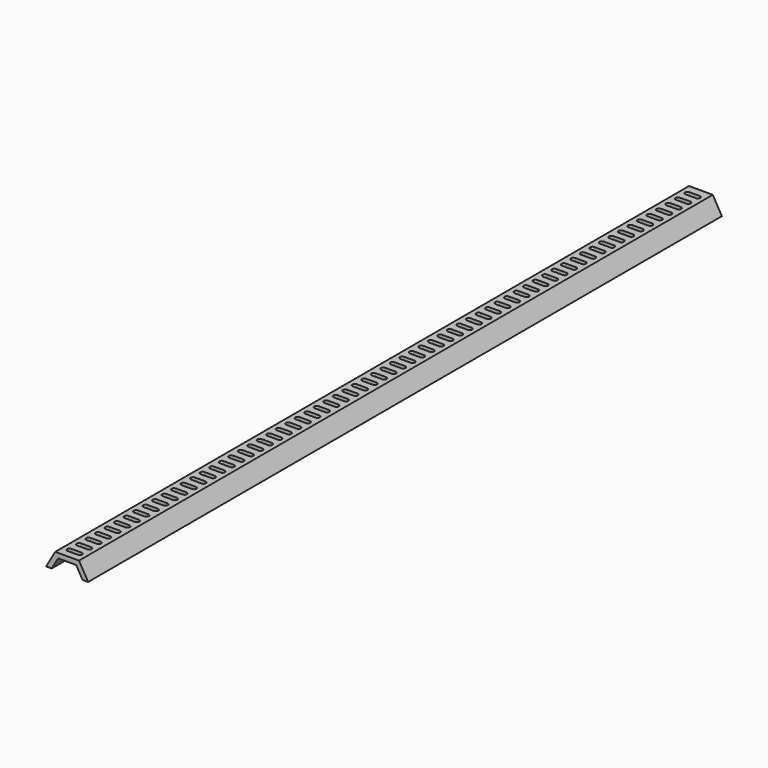
from build123d import *

# Parameters (mm, degrees)
F1_DEPTH = 1000
F3_DEPTH = 20.001


with BuildPart() as f1:
    # F0 (on Front) → F1 (new body)
    with BuildSketch(Plane.XZ):
        Polygon((15, 20), (0, 20), (-15, 20), (-26.547005, 0), (-19.497005, 0), (-11.414102, 14), (0, 14), (11.414102, 14), (19.497005, 0), (26.547005, 0), align=None)
    extrude(amount=F1_DEPTH)

    # F2 (on face) → F3 (cut, through all)
    with BuildSketch(Plane.XY.offset(20)):
        with BuildLine():
            Line((6.481084, -985), (-6.481084, -985))
            ThreePointArc((-6.481084, -985), (-8.602404, -985.87868), (-9.481084, -988))
            ThreePointArc((-9.481084, -988), (-8.602404, -990.12132), (-6.481084, -991))
            Line((-6.481084, -991), (6.481084, -991))
            ThreePointArc((6.481084, -991), (8.602404, -990.12132), (9.481084, -988))
            ThreePointArc((9.481084, -988), (8.602404, -985.87868), (6.481084, -985))
        make_face()
        with BuildLine():
            ThreePointArc((-9.481084, -973), (-8.602404, -975.12132), (-6.481084, -976))
            Line((-6.481084, -976), (6.481084, -976))
            ThreePointArc((6.481084, -976), (8.602404, -975.12132), (9.481084, -973))
            ThreePointArc((9.481084, -973), (8.602404, -970.87868), (6.481084, -970))
            Line((6.481084, -970), (-6.481084, -970))
            ThreePointArc((-6.481084, -970), (-8.602404, -970.87868), (-9.481084, -973))
        make_face()
        with BuildLine():
            ThreePointArc((-9.481084, -958), (-8.602404, -960.12132), (-6.481084, -961))
            Line((-6.481084, -961), (6.481084, -961))
            ThreePointArc((6.481084, -961), (8.602404, -960.12132), (9.481084, -958))
            ThreePointArc((9.481084, -958), (8.602404, -955.87868), (6.481084, -955))
            Line((6.481084, -955), (-6.481084, -955))
            ThreePointArc((-6.481084, -955), (-8.602404, -955.87868), (-9.481084, -958))
        make_face()
        with BuildLine():
            ThreePointArc((-9.481084, -943), (-8.602404, -945.12132), (-6.481084, -946))
            Line((-6.481084, -946), (6.481084, -946))
            ThreePointArc((6.481084, -946), (8.602404, -945.12132), (9.481084, -943))
            ThreePointArc((9.481084, -943), (8.602404, -940.87868), (6.481084, -940))
            Line((6.481084, -940), (-6.481084, -940))
            ThreePointArc((-6.481084, -940), (-8.602404, -940.87868), (-9.481084, -943))
        make_face()
        with BuildLine():
            ThreePointArc((-9.481084, -928), (-8.602404, -930.12132), (-6.481084, -931))
            Line((-6.481084, -931), (6.481084, -931))
            ThreePointArc((6.481084, -931), (8.602404, -930.12132), (9.481084, -928))
            ThreePointArc((9.481084, -928), (8.602404, -925.87868), (6.481084, -925))
            Line((6.481084, -925), (-6.481084, -925))
            ThreePointArc((-6.481084, -925), (-8.602404, -925.87868), (-9.481084, -928))
        make_face()
        with BuildLine():
            ThreePointArc((-9.481084, -913), (-8.602404, -915.12132), (-6.481084, -916))
            Line((-6.481084, -916), (6.481084, -916))
            ThreePointArc((6.481084, -916), (8.602404, -915.12132), (9.481084, -913))
            ThreePointArc((9.481084, -913), (8.602404, -910.87868), (6.481084, -910))
            Line((6.481084, -910), (-6.481084, -910))
            ThreePointArc((-6.481084, -910), (-8.602404, -910.87868), (-9.481084, -913))
        make_face()
        with BuildLine():
            ThreePointArc((-9.481084, -898), (-8.602404, -900.12132), (-6.481084, -901))
            Line((-6.481084, -901), (6.481084, -901))
            ThreePointArc((6.481084, -901), (8.602404, -900.12132), (9.481084, -898))
            ThreePointArc((9.481084, -898), (8.602404, -895.87868), (6.481084, -895))
            Line((6.481084, -895), (-6.481084, -895))
            ThreePointArc((-6.481084, -895), (-8.602404, -895.87868), (-9.481084, -898))
        make_face()
        with BuildLine():
            ThreePointArc((-9.481084, -883), (-8.602404, -885.12132), (-6.481084, -886))
            Line((-6.481084, -886), (6.481084, -886))
            ThreePointArc((6.481084, -886), (8.602404, -885.12132), (9.481084, -883))
            ThreePointArc((9.481084, -883), (8.602404, -880.87868), (6.481084, -880))
            Line((6.481084, -880), (-6.481084, -880))
            ThreePointArc((-6.481084, -880), (-8.602404, -880.87868), (-9.481084, -883))
        make_face()
        with BuildLine():
            ThreePointArc((-9.481084, -868), (-8.602404, -870.12132), (-6.481084, -871))
            Line((-6.481084, -871), (6.481084, -871))
            ThreePointArc((6.481084, -871), (8.602404, -870.12132), (9.481084, -868))
            ThreePointArc((9.481084, -868), (8.602404, -865.87868), (6.481084, -865))
            Line((6.481084, -865), (-6.481084, -865))
            ThreePointArc((-6.481084, -865), (-8.602404, -865.87868), (-9.481084, -868))
        make_face()
        with BuildLine():
            ThreePointArc((-9.481084, -853), (-8.602404, -855.12132), (-6.481084, -856))
            Line((-6.481084, -856), (6.481084, -856))
            ThreePointArc((6.481084, -856), (8.602404, -855.12132), (9.481084, -853))
            ThreePointArc((9.481084, -853), (8.602404, -850.87868), (6.481084, -850))
            Line((6.481084, -850), (-6.481084, -850))
            ThreePointArc((-6.481084, -850), (-8.602404, -850.87868), (-9.481084, -853))
        make_face()
        with BuildLine():
            ThreePointArc((-9.481084, -838), (-8.602404, -840.12132), (-6.481084, -841))
            Line((-6.481084, -841), (6.481084, -841))
            ThreePointArc((6.481084, -841), (8.602404, -840.12132), (9.481084, -838))
            ThreePointArc((9.481084, -838), (8.602404, -835.87868), (6.481084, -835))
            Line((6.481084, -835), (-6.481084, -835))
            ThreePointArc((-6.481084, -835), (-8.602404, -835.87868), (-9.481084, -838))
        make_face()
        with BuildLine():
            ThreePointArc((-9.481084, -823), (-8.602404, -825.12132), (-6.481084, -826))
            Line((-6.481084, -826), (6.481084, -826))
            ThreePointArc((6.481084, -826), (8.602404, -825.12132), (9.481084, -823))
            ThreePointArc((9.481084, -823), (8.602404, -820.87868), (6.481084, -820))
            Line((6.481084, -820), (-6.481084, -820))
            ThreePointArc((-6.481084, -820), (-8.602404, -820.87868), (-9.481084, -823))
        make_face()
        with BuildLine():
            ThreePointArc((-9.481084, -808), (-8.602404, -810.12132), (-6.481084, -811))
            Line((-6.481084, -811), (6.481084, -811))
            ThreePointArc((6.481084, -811), (8.602404, -810.12132), (9.481084, -808))
            ThreePointArc((9.481084, -808), (8.602404, -805.87868), (6.481084, -805))
            Line((6.481084, -805), (-6.481084, -805))
            ThreePointArc((-6.481084, -805), (-8.602404, -805.87868), (-9.481084, -808))
        make_face()
        with BuildLine():
            ThreePointArc((-9.481084, -793), (-8.602404, -795.12132), (-6.481084, -796))
            Line((-6.481084, -796), (6.481084, -796))
            ThreePointArc((6.481084, -796), (8.602404, -795.12132), (9.481084, -793))
            ThreePointArc((9.481084, -793), (8.602404, -790.87868), (6.481084, -790))
            Line((6.481084, -790), (-6.481084, -790))
            ThreePointArc((-6.481084, -790), (-8.602404, -790.87868), (-9.481084, -793))
        make_face()
        with BuildLine():
            ThreePointArc((-9.481084, -778), (-8.602404, -780.12132), (-6.481084, -781))
            Line((-6.481084, -781), (6.481084, -781))
            ThreePointArc((6.481084, -781), (8.602404, -780.12132), (9.481084, -778))
            ThreePointArc((9.481084, -778), (8.602404, -775.87868), (6.481084, -775))
            Line((6.481084, -775), (-6.481084, -775))
            ThreePointArc((-6.481084, -775), (-8.602404, -775.87868), (-9.481084, -778))
        make_face()
        with BuildLine():
            ThreePointArc((-9.481084, -763), (-8.602404, -765.12132), (-6.481084, -766))
            Line((-6.481084, -766), (6.481084, -766))
            ThreePointArc((6.481084, -766), (8.602404, -765.12132), (9.481084, -763))
            ThreePointArc((9.481084, -763), (8.602404, -760.87868), (6.481084, -760))
            Line((6.481084, -760), (-6.481084, -760))
            ThreePointArc((-6.481084, -760), (-8.602404, -760.87868), (-9.481084, -763))
        make_face()
        with BuildLine():
            ThreePointArc((-9.481084, -748), (-8.602404, -750.12132), (-6.481084, -751))
            Line((-6.481084, -751), (6.481084, -751))
            ThreePointArc((6.481084, -751), (8.602404, -750.12132), (9.481084, -748))
            ThreePointArc((9.481084, -748), (8.602404, -745.87868), (6.481084, -745))
            Line((6.481084, -745), (-6.481084, -745))
            ThreePointArc((-6.481084, -745), (-8.602404, -745.87868), (-9.481084, -748))
        make_face()
        with BuildLine():
            ThreePointArc((-9.481084, -733), (-8.602404, -735.12132), (-6.481084, -736))
            Line((-6.481084, -736), (6.481084, -736))
            ThreePointArc((6.481084, -736), (8.602404, -735.12132), (9.481084, -733))
            ThreePointArc((9.481084, -733), (8.602404, -730.87868), (6.481084, -730))
            Line((6.481084, -730), (-6.481084, -730))
            ThreePointArc((-6.481084, -730), (-8.602404, -730.87868), (-9.481084, -733))
        make_face()
        with BuildLine():
            ThreePointArc((-9.481084, -718), (-8.602404, -720.12132), (-6.481084, -721))
            Line((-6.481084, -721), (6.481084, -721))
            ThreePointArc((6.481084, -721), (8.602404, -720.12132), (9.481084, -718))
            ThreePointArc((9.481084, -718), (8.602404, -715.87868), (6.481084, -715))
            Line((6.481084, -715), (-6.481084, -715))
            ThreePointArc((-6.481084, -715), (-8.602404, -715.87868), (-9.481084, -718))
        make_face()
        with BuildLine():
            ThreePointArc((-9.481084, -703), (-8.602404, -705.12132), (-6.481084, -706))
            Line((-6.481084, -706), (6.481084, -706))
            ThreePointArc((6.481084, -706), (8.602404, -705.12132), (9.481084, -703))
            ThreePointArc((9.481084, -703), (8.602404, -700.87868), (6.481084, -700))
            Line((6.481084, -700), (-6.481084, -700))
            ThreePointArc((-6.481084, -700), (-8.602404, -700.87868), (-9.481084, -703))
        make_face()
        with BuildLine():
            ThreePointArc((-9.481084, -688), (-8.602404, -690.12132), (-6.481084, -691))
            Line((-6.481084, -691), (6.481084, -691))
            ThreePointArc((6.481084, -691), (8.602404, -690.12132), (9.481084, -688))
            ThreePointArc((9.481084, -688), (8.602404, -685.87868), (6.481084, -685))
            Line((6.481084, -685), (-6.481084, -685))
            ThreePointArc((-6.481084, -685), (-8.602404, -685.87868), (-9.481084, -688))
        make_face()
        with BuildLine():
            ThreePointArc((-9.481084, -673), (-8.602404, -675.12132), (-6.481084, -676))
            Line((-6.481084, -676), (6.481084, -676))
            ThreePointArc((6.481084, -676), (8.602404, -675.12132), (9.481084, -673))
            ThreePointArc((9.481084, -673), (8.602404, -670.87868), (6.481084, -670))
            Line((6.481084, -670), (-6.481084, -670))
            ThreePointArc((-6.481084, -670), (-8.602404, -670.87868), (-9.481084, -673))
        make_face()
        with BuildLine():
            ThreePointArc((-9.481084, -658), (-8.602404, -660.12132), (-6.481084, -661))
            Line((-6.481084, -661), (6.481084, -661))
            ThreePointArc((6.481084, -661), (8.602404, -660.12132), (9.481084, -658))
            ThreePointArc((9.481084, -658), (8.602404, -655.87868), (6.481084, -655))
            Line((6.481084, -655), (-6.481084, -655))
            ThreePointArc((-6.481084, -655), (-8.602404, -655.87868), (-9.481084, -658))
        make_face()
        with BuildLine():
            ThreePointArc((-9.481084, -643), (-8.602404, -645.12132), (-6.481084, -646))
            Line((-6.481084, -646), (6.481084, -646))
            ThreePointArc((6.481084, -646), (8.602404, -645.12132), (9.481084, -643))
            ThreePointArc((9.481084, -643), (8.602404, -640.87868), (6.481084, -640))
            Line((6.481084, -640), (-6.481084, -640))
            ThreePointArc((-6.481084, -640), (-8.602404, -640.87868), (-9.481084, -643))
        make_face()
        with BuildLine():
            ThreePointArc((-9.481084, -628), (-8.602404, -630.12132), (-6.481084, -631))
            Line((-6.481084, -631), (6.481084, -631))
            ThreePointArc((6.481084, -631), (8.602404, -630.12132), (9.481084, -628))
            ThreePointArc((9.481084, -628), (8.602404, -625.87868), (6.481084, -625))
            Line((6.481084, -625), (-6.481084, -625))
            ThreePointArc((-6.481084, -625), (-8.602404, -625.87868), (-9.481084, -628))
        make_face()
        with BuildLine():
            ThreePointArc((-9.481084, -613), (-8.602404, -615.12132), (-6.481084, -616))
            Line((-6.481084, -616), (6.481084, -616))
            ThreePointArc((6.481084, -616), (8.602404, -615.12132), (9.481084, -613))
            ThreePointArc((9.481084, -613), (8.602404, -610.87868), (6.481084, -610))
            Line((6.481084, -610), (-6.481084, -610))
            ThreePointArc((-6.481084, -610), (-8.602404, -610.87868), (-9.481084, -613))
        make_face()
        with BuildLine():
            ThreePointArc((-9.481084, -598), (-8.602404, -600.12132), (-6.481084, -601))
            Line((-6.481084, -601), (6.481084, -601))
            ThreePointArc((6.481084, -601), (8.602404, -600.12132), (9.481084, -598))
            ThreePointArc((9.481084, -598), (8.602404, -595.87868), (6.481084, -595))
            Line((6.481084, -595), (-6.481084, -595))
            ThreePointArc((-6.481084, -595), (-8.602404, -595.87868), (-9.481084, -598))
        make_face()
        with BuildLine():
            ThreePointArc((-9.481084, -583), (-8.602404, -585.12132), (-6.481084, -586))
            Line((-6.481084, -586), (6.481084, -586))
            ThreePointArc((6.481084, -586), (8.602404, -585.12132), (9.481084, -583))
            ThreePointArc((9.481084, -583), (8.602404, -580.87868), (6.481084, -580))
            Line((6.481084, -580), (-6.481084, -580))
            ThreePointArc((-6.481084, -580), (-8.602404, -580.87868), (-9.481084, -583))
        make_face()
        with BuildLine():
            ThreePointArc((-9.481084, -568), (-8.602404, -570.12132), (-6.481084, -571))
            Line((-6.481084, -571), (6.481084, -571))
            ThreePointArc((6.481084, -571), (8.602404, -570.12132), (9.481084, -568))
            ThreePointArc((9.481084, -568), (8.602404, -565.87868), (6.481084, -565))
            Line((6.481084, -565), (-6.481084, -565))
            ThreePointArc((-6.481084, -565), (-8.602404, -565.87868), (-9.481084, -568))
        make_face()
        with BuildLine():
            ThreePointArc((-9.481084, -553), (-8.602404, -555.12132), (-6.481084, -556))
            Line((-6.481084, -556), (6.481084, -556))
            ThreePointArc((6.481084, -556), (8.602404, -555.12132), (9.481084, -553))
            ThreePointArc((9.481084, -553), (8.602404, -550.87868), (6.481084, -550))
            Line((6.481084, -550), (-6.481084, -550))
            ThreePointArc((-6.481084, -550), (-8.602404, -550.87868), (-9.481084, -553))
        make_face()
        with BuildLine():
            ThreePointArc((-9.481084, -538), (-8.602404, -540.12132), (-6.481084, -541))
            Line((-6.481084, -541), (6.481084, -541))
            ThreePointArc((6.481084, -541), (8.602404, -540.12132), (9.481084, -538))
            ThreePointArc((9.481084, -538), (8.602404, -535.87868), (6.481084, -535))
            Line((6.481084, -535), (-6.481084, -535))
            ThreePointArc((-6.481084, -535), (-8.602404, -535.87868), (-9.481084, -538))
        make_face()
        with BuildLine():
            ThreePointArc((-9.481084, -523), (-8.602404, -525.12132), (-6.481084, -526))
            Line((-6.481084, -526), (6.481084, -526))
            ThreePointArc((6.481084, -526), (8.602404, -525.12132), (9.481084, -523))
            ThreePointArc((9.481084, -523), (8.602404, -520.87868), (6.481084, -520))
            Line((6.481084, -520), (-6.481084, -520))
            ThreePointArc((-6.481084, -520), (-8.602404, -520.87868), (-9.481084, -523))
        make_face()
        with BuildLine():
            ThreePointArc((-9.481084, -508), (-8.602404, -510.12132), (-6.481084, -511))
            Line((-6.481084, -511), (6.481084, -511))
            ThreePointArc((6.481084, -511), (8.602404, -510.12132), (9.481084, -508))
            ThreePointArc((9.481084, -508), (8.602404, -505.87868), (6.481084, -505))
            Line((6.481084, -505), (-6.481084, -505))
            ThreePointArc((-6.481084, -505), (-8.602404, -505.87868), (-9.481084, -508))
        make_face()
        with BuildLine():
            ThreePointArc((-9.481084, -493), (-8.602404, -495.12132), (-6.481084, -496))
            Line((-6.481084, -496), (6.481084, -496))
            ThreePointArc((6.481084, -496), (8.602404, -495.12132), (9.481084, -493))
            ThreePointArc((9.481084, -493), (8.602404, -490.87868), (6.481084, -490))
            Line((6.481084, -490), (-6.481084, -490))
            ThreePointArc((-6.481084, -490), (-8.602404, -490.87868), (-9.481084, -493))
        make_face()
        with BuildLine():
            ThreePointArc((-9.481084, -478), (-8.602404, -480.12132), (-6.481084, -481))
            Line((-6.481084, -481), (6.481084, -481))
            ThreePointArc((6.481084, -481), (8.602404, -480.12132), (9.481084, -478))
            ThreePointArc((9.481084, -478), (8.602404, -475.87868), (6.481084, -475))
            Line((6.481084, -475), (-6.481084, -475))
            ThreePointArc((-6.481084, -475), (-8.602404, -475.87868), (-9.481084, -478))
        make_face()
        with BuildLine():
            ThreePointArc((-9.481084, -463), (-8.602404, -465.12132), (-6.481084, -466))
            Line((-6.481084, -466), (6.481084, -466))
            ThreePointArc((6.481084, -466), (8.602404, -465.12132), (9.481084, -463))
            ThreePointArc((9.481084, -463), (8.602404, -460.87868), (6.481084, -460))
            Line((6.481084, -460), (-6.481084, -460))
            ThreePointArc((-6.481084, -460), (-8.602404, -460.87868), (-9.481084, -463))
        make_face()
        with BuildLine():
            ThreePointArc((-9.481084, -448), (-8.602404, -450.12132), (-6.481084, -451))
            Line((-6.481084, -451), (6.481084, -451))
            ThreePointArc((6.481084, -451), (8.602404, -450.12132), (9.481084, -448))
            ThreePointArc((9.481084, -448), (8.602404, -445.87868), (6.481084, -445))
            Line((6.481084, -445), (-6.481084, -445))
            ThreePointArc((-6.481084, -445), (-8.602404, -445.87868), (-9.481084, -448))
        make_face()
        with BuildLine():
            ThreePointArc((-9.481084, -433), (-8.602404, -435.12132), (-6.481084, -436))
            Line((-6.481084, -436), (6.481084, -436))
            ThreePointArc((6.481084, -436), (8.602404, -435.12132), (9.481084, -433))
            ThreePointArc((9.481084, -433), (8.602404, -430.87868), (6.481084, -430))
            Line((6.481084, -430), (-6.481084, -430))
            ThreePointArc((-6.481084, -430), (-8.602404, -430.87868), (-9.481084, -433))
        make_face()
        with BuildLine():
            ThreePointArc((-9.481084, -418), (-8.602404, -420.12132), (-6.481084, -421))
            Line((-6.481084, -421), (6.481084, -421))
            ThreePointArc((6.481084, -421), (8.602404, -420.12132), (9.481084, -418))
            ThreePointArc((9.481084, -418), (8.602404, -415.87868), (6.481084, -415))
            Line((6.481084, -415), (-6.481084, -415))
            ThreePointArc((-6.481084, -415), (-8.602404, -415.87868), (-9.481084, -418))
        make_face()
        with BuildLine():
            ThreePointArc((-9.481084, -403), (-8.602404, -405.12132), (-6.481084, -406))
            Line((-6.481084, -406), (6.481084, -406))
            ThreePointArc((6.481084, -406), (8.602404, -405.12132), (9.481084, -403))
            ThreePointArc((9.481084, -403), (8.602404, -400.87868), (6.481084, -400))
            Line((6.481084, -400), (-6.481084, -400))
            ThreePointArc((-6.481084, -400), (-8.602404, -400.87868), (-9.481084, -403))
        make_face()
        with BuildLine():
            ThreePointArc((-9.481084, -388), (-8.602404, -390.12132), (-6.481084, -391))
            Line((-6.481084, -391), (6.481084, -391))
            ThreePointArc((6.481084, -391), (8.602404, -390.12132), (9.481084, -388))
            ThreePointArc((9.481084, -388), (8.602404, -385.87868), (6.481084, -385))
            Line((6.481084, -385), (-6.481084, -385))
            ThreePointArc((-6.481084, -385), (-8.602404, -385.87868), (-9.481084, -388))
        make_face()
        with BuildLine():
            ThreePointArc((-9.481084, -373), (-8.602404, -375.12132), (-6.481084, -376))
            Line((-6.481084, -376), (6.481084, -376))
            ThreePointArc((6.481084, -376), (8.602404, -375.12132), (9.481084, -373))
            ThreePointArc((9.481084, -373), (8.602404, -370.87868), (6.481084, -370))
            Line((6.481084, -370), (-6.481084, -370))
            ThreePointArc((-6.481084, -370), (-8.602404, -370.87868), (-9.481084, -373))
        make_face()
        with BuildLine():
            ThreePointArc((-9.481084, -358), (-8.602404, -360.12132), (-6.481084, -361))
            Line((-6.481084, -361), (6.481084, -361))
            ThreePointArc((6.481084, -361), (8.602404, -360.12132), (9.481084, -358))
            ThreePointArc((9.481084, -358), (8.602404, -355.87868), (6.481084, -355))
            Line((6.481084, -355), (-6.481084, -355))
            ThreePointArc((-6.481084, -355), (-8.602404, -355.87868), (-9.481084, -358))
        make_face()
        with BuildLine():
            ThreePointArc((-9.481084, -343), (-8.602404, -345.12132), (-6.481084, -346))
            Line((-6.481084, -346), (6.481084, -346))
            ThreePointArc((6.481084, -346), (8.602404, -345.12132), (9.481084, -343))
            ThreePointArc((9.481084, -343), (8.602404, -340.87868), (6.481084, -340))
            Line((6.481084, -340), (-6.481084, -340))
            ThreePointArc((-6.481084, -340), (-8.602404, -340.87868), (-9.481084, -343))
        make_face()
        with BuildLine():
            ThreePointArc((-9.481084, -328), (-8.602404, -330.12132), (-6.481084, -331))
            Line((-6.481084, -331), (6.481084, -331))
            ThreePointArc((6.481084, -331), (8.602404, -330.12132), (9.481084, -328))
            ThreePointArc((9.481084, -328), (8.602404, -325.87868), (6.481084, -325))
            Line((6.481084, -325), (-6.481084, -325))
            ThreePointArc((-6.481084, -325), (-8.602404, -325.87868), (-9.481084, -328))
        make_face()
        with BuildLine():
            ThreePointArc((-9.481084, -313), (-8.602404, -315.12132), (-6.481084, -316))
            Line((-6.481084, -316), (6.481084, -316))
            ThreePointArc((6.481084, -316), (8.602404, -315.12132), (9.481084, -313))
            ThreePointArc((9.481084, -313), (8.602404, -310.87868), (6.481084, -310))
            Line((6.481084, -310), (-6.481084, -310))
            ThreePointArc((-6.481084, -310), (-8.602404, -310.87868), (-9.481084, -313))
        make_face()
        with BuildLine():
            ThreePointArc((-9.481084, -298), (-8.602404, -300.12132), (-6.481084, -301))
            Line((-6.481084, -301), (6.481084, -301))
            ThreePointArc((6.481084, -301), (8.602404, -300.12132), (9.481084, -298))
            ThreePointArc((9.481084, -298), (8.602404, -295.87868), (6.481084, -295))
            Line((6.481084, -295), (-6.481084, -295))
            ThreePointArc((-6.481084, -295), (-8.602404, -295.87868), (-9.481084, -298))
        make_face()
        with BuildLine():
            ThreePointArc((-9.481084, -283), (-8.602404, -285.12132), (-6.481084, -286))
            Line((-6.481084, -286), (6.481084, -286))
            ThreePointArc((6.481084, -286), (8.602404, -285.12132), (9.481084, -283))
            ThreePointArc((9.481084, -283), (8.602404, -280.87868), (6.481084, -280))
            Line((6.481084, -280), (-6.481084, -280))
            ThreePointArc((-6.481084, -280), (-8.602404, -280.87868), (-9.481084, -283))
        make_face()
        with BuildLine():
            ThreePointArc((-9.481084, -268), (-8.602404, -270.12132), (-6.481084, -271))
            Line((-6.481084, -271), (6.481084, -271))
            ThreePointArc((6.481084, -271), (8.602404, -270.12132), (9.481084, -268))
            ThreePointArc((9.481084, -268), (8.602404, -265.87868), (6.481084, -265))
            Line((6.481084, -265), (-6.481084, -265))
            ThreePointArc((-6.481084, -265), (-8.602404, -265.87868), (-9.481084, -268))
        make_face()
        with BuildLine():
            ThreePointArc((-9.481084, -253), (-8.602404, -255.12132), (-6.481084, -256))
            Line((-6.481084, -256), (6.481084, -256))
            ThreePointArc((6.481084, -256), (8.602404, -255.12132), (9.481084, -253))
            ThreePointArc((9.481084, -253), (8.602404, -250.87868), (6.481084, -250))
            Line((6.481084, -250), (-6.481084, -250))
            ThreePointArc((-6.481084, -250), (-8.602404, -250.87868), (-9.481084, -253))
        make_face()
        with BuildLine():
            ThreePointArc((-9.481084, -238), (-8.602404, -240.12132), (-6.481084, -241))
            Line((-6.481084, -241), (6.481084, -241))
            ThreePointArc((6.481084, -241), (8.602404, -240.12132), (9.481084, -238))
            ThreePointArc((9.481084, -238), (8.602404, -235.87868), (6.481084, -235))
            Line((6.481084, -235), (-6.481084, -235))
            ThreePointArc((-6.481084, -235), (-8.602404, -235.87868), (-9.481084, -238))
        make_face()
        with BuildLine():
            ThreePointArc((-9.481084, -223), (-8.602404, -225.12132), (-6.481084, -226))
            Line((-6.481084, -226), (6.481084, -226))
            ThreePointArc((6.481084, -226), (8.602404, -225.12132), (9.481084, -223))
            ThreePointArc((9.481084, -223), (8.602404, -220.87868), (6.481084, -220))
            Line((6.481084, -220), (-6.481084, -220))
            ThreePointArc((-6.481084, -220), (-8.602404, -220.87868), (-9.481084, -223))
        make_face()
        with BuildLine():
            ThreePointArc((-9.481084, -208), (-8.602404, -210.12132), (-6.481084, -211))
            Line((-6.481084, -211), (6.481084, -211))
            ThreePointArc((6.481084, -211), (8.602404, -210.12132), (9.481084, -208))
            ThreePointArc((9.481084, -208), (8.602404, -205.87868), (6.481084, -205))
            Line((6.481084, -205), (-6.481084, -205))
            ThreePointArc((-6.481084, -205), (-8.602404, -205.87868), (-9.481084, -208))
        make_face()
        with BuildLine():
            ThreePointArc((-9.481084, -193), (-8.602404, -195.12132), (-6.481084, -196))
            Line((-6.481084, -196), (6.481084, -196))
            ThreePointArc((6.481084, -196), (8.602404, -195.12132), (9.481084, -193))
            ThreePointArc((9.481084, -193), (8.602404, -190.87868), (6.481084, -190))
            Line((6.481084, -190), (-6.481084, -190))
            ThreePointArc((-6.481084, -190), (-8.602404, -190.87868), (-9.481084, -193))
        make_face()
        with BuildLine():
            ThreePointArc((-9.481084, -178), (-8.602404, -180.12132), (-6.481084, -181))
            Line((-6.481084, -181), (6.481084, -181))
            ThreePointArc((6.481084, -181), (8.602404, -180.12132), (9.481084, -178))
            ThreePointArc((9.481084, -178), (8.602404, -175.87868), (6.481084, -175))
            Line((6.481084, -175), (-6.481084, -175))
            ThreePointArc((-6.481084, -175), (-8.602404, -175.87868), (-9.481084, -178))
        make_face()
        with BuildLine():
            ThreePointArc((-9.481084, -163), (-8.602404, -165.12132), (-6.481084, -166))
            Line((-6.481084, -166), (6.481084, -166))
            ThreePointArc((6.481084, -166), (8.602404, -165.12132), (9.481084, -163))
            ThreePointArc((9.481084, -163), (8.602404, -160.87868), (6.481084, -160))
            Line((6.481084, -160), (-6.481084, -160))
            ThreePointArc((-6.481084, -160), (-8.602404, -160.87868), (-9.481084, -163))
        make_face()
        with BuildLine():
            ThreePointArc((-9.481084, -148), (-8.602404, -150.12132), (-6.481084, -151))
            Line((-6.481084, -151), (6.481084, -151))
            ThreePointArc((6.481084, -151), (8.602404, -150.12132), (9.481084, -148))
            ThreePointArc((9.481084, -148), (8.602404, -145.87868), (6.481084, -145))
            Line((6.481084, -145), (-6.481084, -145))
            ThreePointArc((-6.481084, -145), (-8.602404, -145.87868), (-9.481084, -148))
        make_face()
        with BuildLine():
            ThreePointArc((-9.481084, -133), (-8.602404, -135.12132), (-6.481084, -136))
            Line((-6.481084, -136), (6.481084, -136))
            ThreePointArc((6.481084, -136), (8.602404, -135.12132), (9.481084, -133))
            ThreePointArc((9.481084, -133), (8.602404, -130.87868), (6.481084, -130))
            Line((6.481084, -130), (-6.481084, -130))
            ThreePointArc((-6.481084, -130), (-8.602404, -130.87868), (-9.481084, -133))
        make_face()
        with BuildLine():
            ThreePointArc((-9.481084, -118), (-8.602404, -120.12132), (-6.481084, -121))
            Line((-6.481084, -121), (6.481084, -121))
            ThreePointArc((6.481084, -121), (8.602404, -120.12132), (9.481084, -118))
            ThreePointArc((9.481084, -118), (8.602404, -115.87868), (6.481084, -115))
            Line((6.481084, -115), (-6.481084, -115))
            ThreePointArc((-6.481084, -115), (-8.602404, -115.87868), (-9.481084, -118))
        make_face()
        with BuildLine():
            ThreePointArc((-9.481084, -103), (-8.602404, -105.12132), (-6.481084, -106))
            Line((-6.481084, -106), (6.481084, -106))
            ThreePointArc((6.481084, -106), (8.602404, -105.12132), (9.481084, -103))
            ThreePointArc((9.481084, -103), (8.602404, -100.87868), (6.481084, -100))
            Line((6.481084, -100), (-6.481084, -100))
            ThreePointArc((-6.481084, -100), (-8.602404, -100.87868), (-9.481084, -103))
        make_face()
        with BuildLine():
            ThreePointArc((-9.481084, -88), (-8.602404, -90.12132), (-6.481084, -91))
            Line((-6.481084, -91), (6.481084, -91))
            ThreePointArc((6.481084, -91), (8.602404, -90.12132), (9.481084, -88))
            ThreePointArc((9.481084, -88), (8.602404, -85.87868), (6.481084, -85))
            Line((6.481084, -85), (-6.481084, -85))
            ThreePointArc((-6.481084, -85), (-8.602404, -85.87868), (-9.481084, -88))
        make_face()
        with BuildLine():
            ThreePointArc((-9.481084, -73), (-8.602404, -75.12132), (-6.481084, -76))
            Line((-6.481084, -76), (6.481084, -76))
            ThreePointArc((6.481084, -76), (8.602404, -75.12132), (9.481084, -73))
            ThreePointArc((9.481084, -73), (8.602404, -70.87868), (6.481084, -70))
            Line((6.481084, -70), (-6.481084, -70))
            ThreePointArc((-6.481084, -70), (-8.602404, -70.87868), (-9.481084, -73))
        make_face()
        with BuildLine():
            ThreePointArc((-9.481084, -58), (-8.602404, -60.12132), (-6.481084, -61))
            Line((-6.481084, -61), (6.481084, -61))
            ThreePointArc((6.481084, -61), (8.602404, -60.12132), (9.481084, -58))
            ThreePointArc((9.481084, -58), (8.602404, -55.87868), (6.481084, -55))
            Line((6.481084, -55), (-6.481084, -55))
            ThreePointArc((-6.481084, -55), (-8.602404, -55.87868), (-9.481084, -58))
        make_face()
        with BuildLine():
            ThreePointArc((-9.481084, -43), (-8.602404, -45.12132), (-6.481084, -46))
            Line((-6.481084, -46), (6.481084, -46))
            ThreePointArc((6.481084, -46), (8.602404, -45.12132), (9.481084, -43))
            ThreePointArc((9.481084, -43), (8.602404, -40.87868), (6.481084, -40))
            Line((6.481084, -40), (-6.481084, -40))
            ThreePointArc((-6.481084, -40), (-8.602404, -40.87868), (-9.481084, -43))
        make_face()
        with BuildLine():
            ThreePointArc((-9.481084, -28), (-8.602404, -30.12132), (-6.481084, -31))
            Line((-6.481084, -31), (6.481084, -31))
            ThreePointArc((6.481084, -31), (8.602404, -30.12132), (9.481084, -28))
            ThreePointArc((9.481084, -28), (8.602404, -25.87868), (6.481084, -25))
            Line((6.481084, -25), (-6.481084, -25))
            ThreePointArc((-6.481084, -25), (-8.602404, -25.87868), (-9.481084, -28))
        make_face()
        with BuildLine():
            ThreePointArc((-9.481084, -13), (-8.602404, -15.12132), (-6.481084, -16))
            Line((-6.481084, -16), (6.481084, -16))
            ThreePointArc((6.481084, -16), (8.602404, -15.12132), (9.481084, -13))
            ThreePointArc((9.481084, -13), (8.602404, -10.87868), (6.481084, -10))
            Line((6.481084, -10), (-6.481084, -10))
            ThreePointArc((-6.481084, -10), (-8.602404, -10.87868), (-9.481084, -13))
        make_face()
    extrude(amount=-F3_DEPTH, mode=Mode.SUBTRACT)


solid = f1.part
